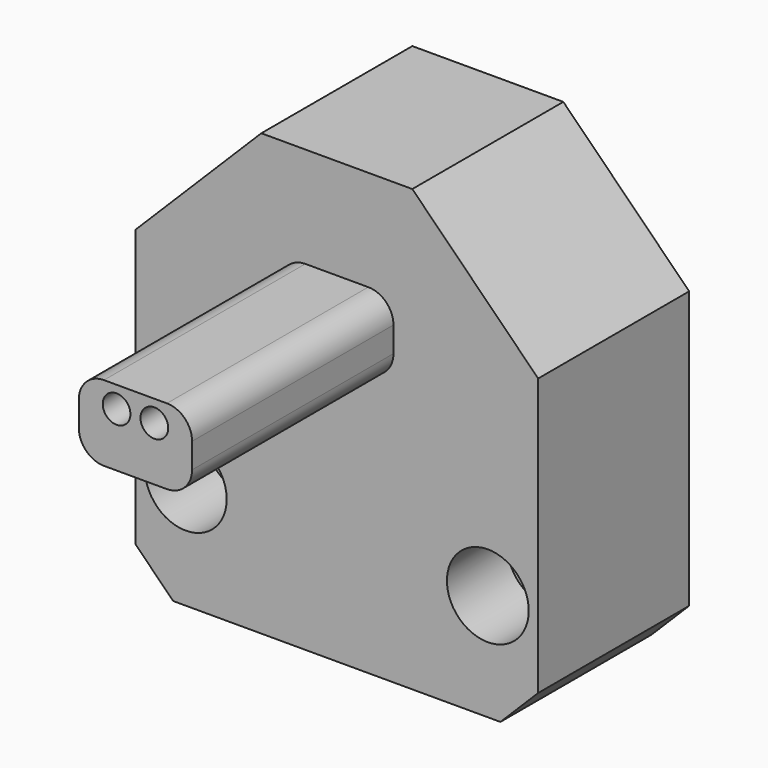
from build123d import *

# Parameters (mm, degrees)
F1_DEPTH       = 15
F2_W           = 9
F2_H           = 6
F3_DEPTH       = 20
F4_W           = 18
F4_H           = 13
F5_DEPTH       = 13
F6_R           = 3
F7_D           = 3.3
F7_CBORE_D     = 6.5
F7_CBORE_DEPTH = 6
F9_D           = 1.76
F9_CBORE_D     = 2.2
F9_CBORE_DEPTH = 13
F10_R          = 2


with BuildPart() as f1:
    # F0 (on Front) → F1 (new body)
    with BuildSketch(Plane.XZ):
        Polygon((22, 0), (10, 0), (0, -10), (0, -32), (3, -35), (29, -35), (32, -32), (32, -10), align=None)
    extrude(amount=F1_DEPTH)

    # F2 (on face) → F3 (join)
    with BuildSketch(Plane.XZ.offset(15)):
        with Locations((16, -11)):
            Rectangle(F2_W, F2_H)
    extrude(amount=F3_DEPTH)

    # F4 (on face) → F5 (cut)
    with BuildSketch(Plane(origin=(0, 0, 0), x_dir=(-1, 0, 0), z_dir=(0, 1, 0))):
        with Locations((-16, -11.5)):
            Rectangle(F4_W, F4_H)
    extrude(amount=-F5_DEPTH, mode=Mode.SUBTRACT)

    # F6
    f6_edges = [f1.edges().sort_by_distance(p)[0] for p in [
        (25, -6.5, -5),
        (7, -6.5, -5),
        (25, -6.5, -18),
        (7, -6.5, -18),
    ]]
    fillet(f6_edges, radius=F6_R)

    # F7 (through all)
    with Locations(Plane.XZ.offset(15)):
        with Locations((4, -26.5), (28, -26.5)):
            CounterBoreHole(F7_D / 2, F7_CBORE_D / 2, F7_CBORE_DEPTH)

    # F9 (through all)
    with Locations(Plane.XZ.offset(35)):
        with Locations((14.5, -9.7), (17.5, -9.7)):
            CounterBoreHole(F9_D / 2, F9_CBORE_D / 2, F9_CBORE_DEPTH)

    # F10
    f10_edges = [f1.edges().sort_by_distance(p)[0] for p in [
        (20.5, -25, -8),
        (20.5, -25, -14),
        (11.5, -25, -8),
        (11.5, -25, -14),
    ]]
    fillet(f10_edges, radius=F10_R)


solid = f1.part
